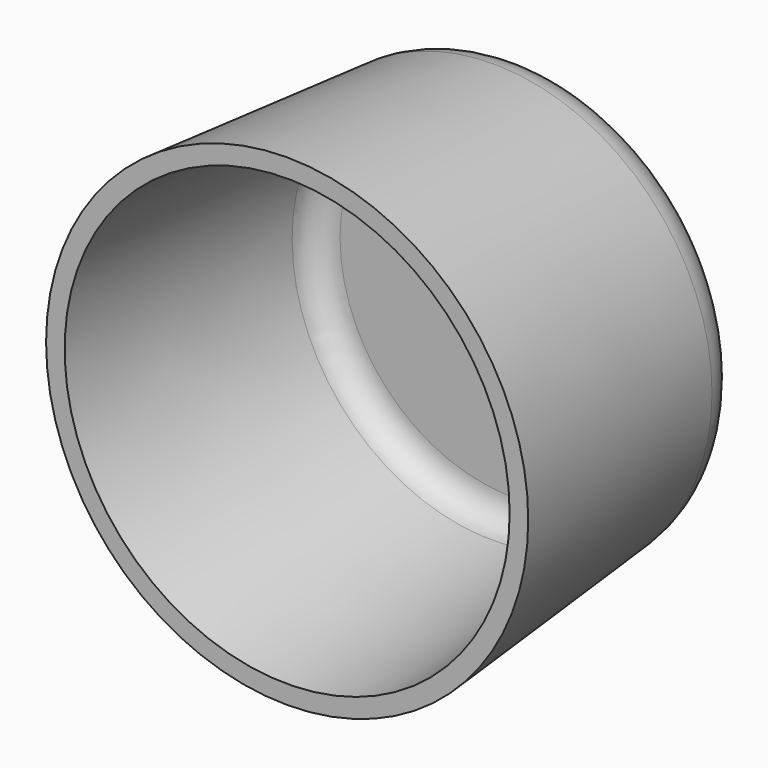
from build123d import *

# Parameters (mm, degrees)
F0_R     = 58.9929104122
F4_DEPTH = 82.4266280979
F4_TAPER = -5
F1_R     = 12.7
F2_T     = -5.08


with BuildPart() as f4:
    # F0 (on Front) → F4 (new body)
    with BuildSketch(Plane.XZ):
        with Locations((0, 46.2810769677)):
            Circle(F0_R)
    extrude(amount=F4_DEPTH, taper=F4_TAPER)

    # F1
    f1_edges = [f4.edges().sort_by_distance(p)[0] for p in [
        (-58.99291, 0, 46.281077),
    ]]
    fillet(f1_edges, radius=F1_R)

    # F2
    f2_openings = [f4.faces().sort_by_distance(p)[0] for p in [
        (0, -82.426628, 46.281077),
    ]]
    offset(amount=F2_T, openings=f2_openings, kind=Kind.INTERSECTION)


solid = f4.part
